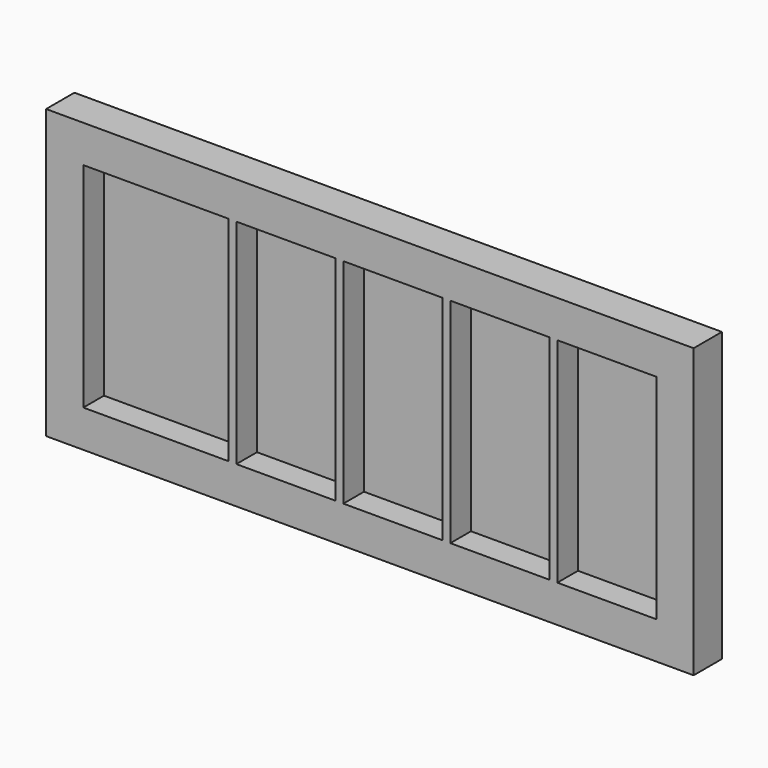
from build123d import *

# Parameters (mm, degrees)
F0_W     = 121.7
F0_H     = 54.12
F1_DEPTH = 6.65
F2_W     = 27.26
F2_H     = 40.12
F2_W_2   = 18.61
F3_DEPTH = 4.85


with BuildPart() as f1:
    # F0 (on Front) → F1 (new body)
    with BuildSketch(Plane.XZ):
        Rectangle(F0_W, F0_H)
    extrude(amount=F1_DEPTH)

    # F2 (on face) → F3 (cut)
    with BuildSketch(Plane.XZ.offset(6.65)):
        with Locations((-40.22, 0)):
            Rectangle(F2_W, F2_H)
        with Locations((-15.785, 0)):
            Rectangle(F2_W_2, F2_H)
        with Locations((4.325, 0)):
            Rectangle(F2_W_2, F2_H)
        with Locations((24.435, 0)):
            Rectangle(F2_W_2, F2_H)
        with Locations((44.545, 0)):
            Rectangle(F2_W_2, F2_H)
    extrude(amount=-F3_DEPTH, mode=Mode.SUBTRACT)


solid = f1.part
